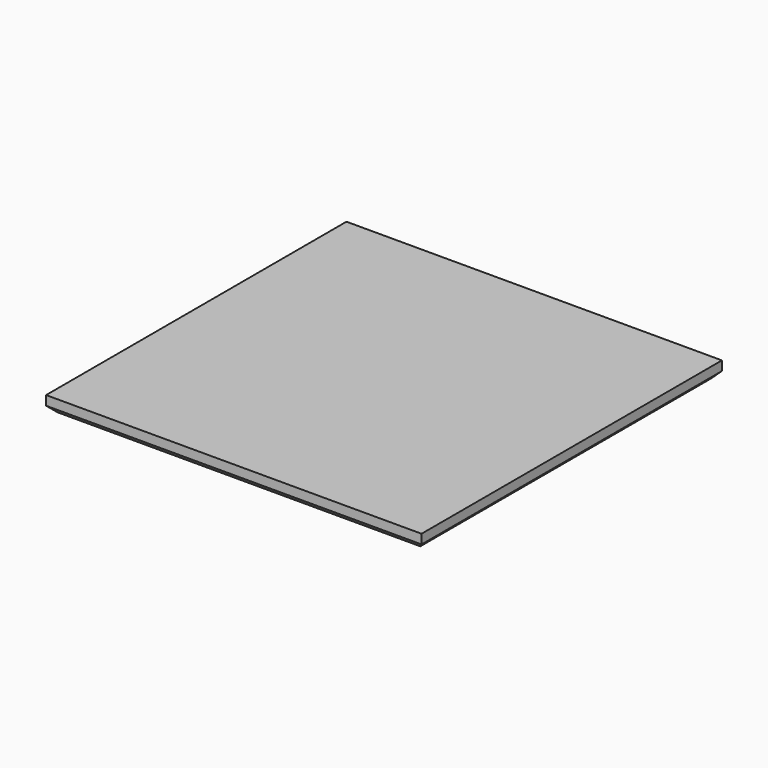
from build123d import *

# Parameters (mm, degrees)
F0_W     = 76.2
F0_H     = 76.2
F1_DEPTH = 3.175
F2_SIZE  = 1.27
F3_SIZE  = 1.27
F4_SIZE  = 1.27
F5_SIZE  = 1.27


with BuildPart() as f1:
    # F0 (on Top) → F1 (new body)
    with BuildSketch(Plane.XY):
        Rectangle(F0_W, F0_H)
    extrude(amount=F1_DEPTH)

    # F2
    f2_edges = [f1.edges().sort_by_distance(p)[0] for p in [
        (38.1, 0, 0),
    ]]
    chamfer(f2_edges, length=F2_SIZE)

    # F3
    f3_edges = [f1.edges().sort_by_distance(p)[0] for p in [
        (-0.635, 38.1, 0),
    ]]
    chamfer(f3_edges, length=F3_SIZE)

    # F4
    f4_edges = [f1.edges().sort_by_distance(p)[0] for p in [
        (-38.1, -0.635, 0),
    ]]
    chamfer(f4_edges, length=F4_SIZE)

    # F5
    f5_edges = [f1.edges().sort_by_distance(p)[0] for p in [
        (0, -38.1, 0),
    ]]
    chamfer(f5_edges, length=F5_SIZE)


solid = f1.part
